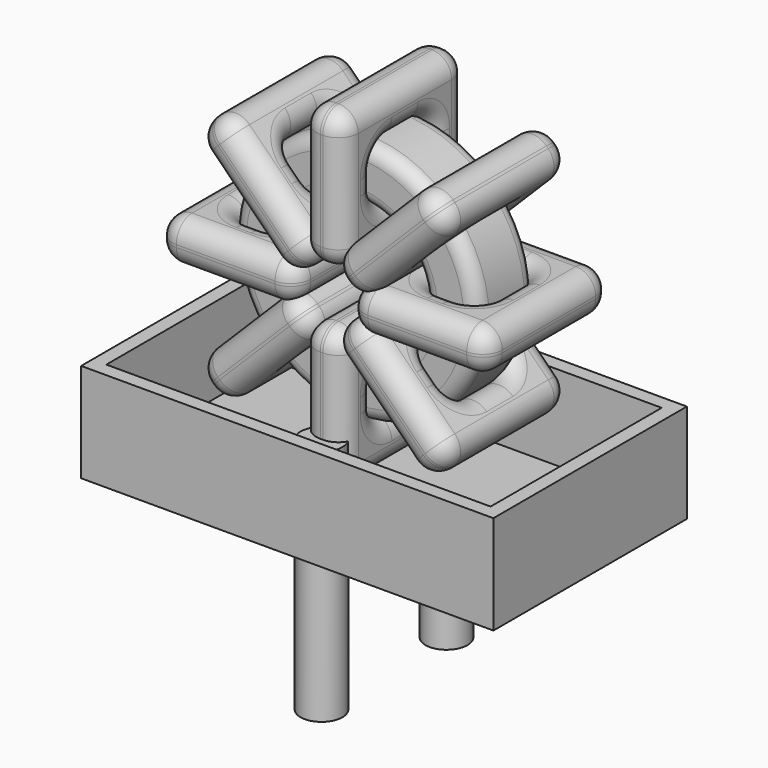
from build123d import *

# Parameters (mm, degrees)
SKETCH001_R       = 0.75
PAD001_DEPTH      = 1.5
PAD001_DEPTH_BACK = 7
SKETCH_R          = 4.392
SKETCH_R_2        = 2.455
PAD_DEPTH         = 1.29
FILLET_R          = 0.5
SKETCH003_W       = 4.937
SKETCH003_H       = 5.58
SKETCH003_W_2     = 1.937
SKETCH003_H_2     = 2.58
PAD002_DEPTH      = 0.75
FILLET001_R       = 0.705
SKETCH004_W       = 4.937
SKETCH004_H       = 5.58
SKETCH004_W_2     = 1.937
SKETCH004_H_2     = 2.58
PAD003_DEPTH      = 0.75
FILLET002_R       = 0.705
SKETCH005_W       = 4.937
SKETCH005_H       = 5.58
SKETCH005_W_2     = 1.937
SKETCH005_H_2     = 2.58
PAD004_DEPTH      = 0.75
FILLET003_R       = 0.705
SKETCH006_W       = 4.937
SKETCH006_H       = 5.58
SKETCH006_W_2     = 1.937
SKETCH006_H_2     = 2.58
PAD005_DEPTH      = 0.75
FILLET004_R       = 0.705
SKETCH007_W       = 14.73
SKETCH007_H       = 8.64
PAD006_DEPTH      = 0.5
SKETCH008_W       = 14.73
SKETCH008_H       = 8.64
SKETCH008_W_2     = 13.73
SKETCH008_H_2     = 7.64
PAD007_DEPTH      = 3.5352


with BuildPart() as pad001:
    # Sketch001 → Pad001 (new body, two sides)
    with BuildSketch(Plane.XY.offset(2)) as pad001_sk:
        Circle(SKETCH001_R)
        with Locations((0, -5.58)):
            Circle(SKETCH001_R)
    extrude(amount=PAD001_DEPTH)
    extrude(pad001_sk.sketch, amount=-PAD001_DEPTH_BACK)


with BuildPart() as fillet_body:
    # Sketch → Pad (new body, symmetric)
    with BuildSketch(Plane.XZ.offset(2.79)):
        with Locations((0, 7.892)):
            Circle(SKETCH_R)
        with Locations((0, 7.892)):
            Circle(SKETCH_R_2, mode=Mode.SUBTRACT)
    extrude(amount=PAD_DEPTH, both=True)

    # Fillet
    fillet_edges = [fillet_body.edges().sort_by_distance(p)[0] for p in [
        (-2.455, -4.08, 7.892),
        (-4.392, -4.08, 7.892),
        (-4.392, -1.5, 7.892),
    ]]
    fillet(fillet_edges, radius=FILLET_R)


with BuildPart() as fillet001:
    # Sketch003 → Pad002 (new body, symmetric)
    with BuildSketch(Plane(origin=(0, 0, 7.892), x_dir=(1, 0, 0), z_dir=(0, 0, -1))):
        with Locations((-3.4235, 2.79)):
            Rectangle(SKETCH003_W, SKETCH003_H)
        with Locations((-3.4235, 2.79)):
            Rectangle(SKETCH003_W_2, SKETCH003_H_2, mode=Mode.SUBTRACT)
        with Locations((3.4235, 2.79)):
            Rectangle(SKETCH003_W, SKETCH003_H)
        with Locations((3.4235, 2.79)):
            Rectangle(SKETCH003_W_2, SKETCH003_H_2, mode=Mode.SUBTRACT)
    extrude(amount=PAD002_DEPTH, both=True)

    # Fillet001
    fillet001_edges = [fillet001.edges().sort_by_distance(p)[0] for p in [
        (-2.455, -4.08, 7.892),
        (-2.455, -1.5, 7.892),
        (-2.455, -2.79, 8.642),
        (-2.455, -2.79, 7.142),
        (-5.892, -5.58, 7.892),
        (-0.955, -5.58, 7.892),
        (-3.4235, -5.58, 8.642),
        (-3.4235, -5.58, 7.142),
        (-0.955, 0, 7.892),
        (-0.955, -2.79, 8.642),
        (-0.955, -2.79, 7.142),
        (2.455, -4.08, 7.892),
        (4.392, -4.08, 7.892),
        (3.4235, -4.08, 8.642),
        (3.4235, -4.08, 7.142),
        (4.392, -1.5, 7.892),
        (4.392, -2.79, 8.642),
        (4.392, -2.79, 7.142),
        (0.955, -5.58, 7.892),
        (5.892, -5.58, 7.892),
        (3.4235, -5.58, 8.642),
        (3.4235, -5.58, 7.142),
        (5.892, 0, 7.892),
        (5.892, -2.79, 8.642),
        (5.892, -2.79, 7.142),
        (-4.392, -4.08, 7.892),
        (-3.4235, -4.08, 8.642),
        (-3.4235, -4.08, 7.142),
        (2.455, -1.5, 7.892),
        (2.455, -2.79, 8.642),
        (2.455, -2.79, 7.142),
        (3.4235, -1.5, 8.642),
        (3.4235, -1.5, 7.142),
        (0.955, 0, 7.892),
        (3.4235, 0, 8.642),
        (3.4235, 0, 7.142),
        (0.955, -2.79, 8.642),
        (0.955, -2.79, 7.142),
        (-5.892, 0, 7.892),
        (-3.4235, 0, 8.642),
        (-3.4235, 0, 7.142),
        (-5.892, -2.79, 8.642),
        (-5.892, -2.79, 7.142),
        (-4.392, -1.5, 7.892),
        (-4.392, -2.79, 8.642),
        (-4.392, -2.79, 7.142),
        (-3.4235, -1.5, 8.642),
        (-3.4235, -1.5, 7.142),
    ]]
    fillet(fillet001_edges, radius=FILLET001_R)


with BuildPart() as fillet002:
    # Sketch004 → Pad003 (new body, symmetric)
    with BuildSketch(Plane(origin=(0, 0, 7.892), x_dir=(0.707108, 0, 0.707106), z_dir=(0.707106, 0, -0.707108))):
        with Locations((-3.4235, 2.79)):
            Rectangle(SKETCH004_W, SKETCH004_H)
        with Locations((-3.4235, 2.79)):
            Rectangle(SKETCH004_W_2, SKETCH004_H_2, mode=Mode.SUBTRACT)
        with Locations((3.4235, 2.79)):
            Rectangle(SKETCH004_W, SKETCH004_H)
        with Locations((3.4235, 2.79)):
            Rectangle(SKETCH004_W_2, SKETCH004_H_2, mode=Mode.SUBTRACT)
    extrude(amount=PAD003_DEPTH, both=True)

    # Fillet002
    fillet002_edges = [fillet002.edges().sort_by_distance(p)[0] for p in [
        (-1.735949, -4.08, 6.156055),
        (-1.735949, -1.5, 6.156055),
        (-2.266279, -2.79, 6.686386),
        (-1.20562, -2.79, 5.625724),
        (-4.166278, -5.58, 3.725732),
        (-0.675288, -5.58, 7.216714),
        (-2.951112, -5.58, 6.001553),
        (-1.890453, -5.58, 4.940892),
        (-0.675288, 0, 7.216714),
        (-1.205617, -2.79, 7.747045),
        (-0.144958, -2.79, 6.686383),
        (1.735949, -1.5, 9.627945),
        (1.735949, -4.08, 9.627945),
        (1.20562, -2.79, 10.158276),
        (2.266279, -2.79, 9.097614),
        (3.105617, -1.5, 10.997609),
        (1.890453, -1.5, 10.843108),
        (2.951112, -1.5, 9.782447),
        (0.675288, -5.58, 8.567286),
        (4.166278, -5.58, 12.058268),
        (1.890453, -5.58, 10.843108),
        (2.951112, -5.58, 9.782447),
        (4.166278, 0, 12.058268),
        (3.635949, -2.79, 12.588599),
        (4.696607, -2.79, 11.527938),
        (-3.105617, -4.08, 4.786391),
        (-2.951112, -4.08, 6.001553),
        (-1.890453, -4.08, 4.940892),
        (3.105617, -4.08, 10.997609),
        (1.890453, -4.08, 10.843108),
        (2.951112, -4.08, 9.782447),
        (2.575287, -2.79, 11.52794),
        (3.635946, -2.79, 10.467279),
        (0.675288, 0, 8.567286),
        (1.890453, 0, 10.843108),
        (2.951112, 0, 9.782447),
        (0.144958, -2.79, 9.097617),
        (1.205617, -2.79, 8.036955),
        (-4.166278, 0, 3.725732),
        (-2.951112, 0, 6.001553),
        (-1.890453, 0, 4.940892),
        (-4.696607, -2.79, 4.256062),
        (-3.635949, -2.79, 3.195401),
        (-3.105617, -1.5, 4.786391),
        (-3.635946, -2.79, 5.316721),
        (-2.575287, -2.79, 4.25606),
        (-2.951112, -1.5, 6.001553),
        (-1.890453, -1.5, 4.940892),
    ]]
    fillet(fillet002_edges, radius=FILLET002_R)


with BuildPart() as fillet003:
    # Sketch005 → Pad004 (new body, symmetric)
    with BuildSketch(Plane(origin=(0, 0, 7.892), x_dir=(0.707108, 0, -0.707106), z_dir=(-0.707106, 0, -0.707108))):
        with Locations((-3.4235, 2.79)):
            Rectangle(SKETCH005_W, SKETCH005_H)
        with Locations((-3.4235, 2.79)):
            Rectangle(SKETCH005_W_2, SKETCH005_H_2, mode=Mode.SUBTRACT)
        with Locations((3.4235, 2.79)):
            Rectangle(SKETCH005_W, SKETCH005_H)
        with Locations((3.4235, 2.79)):
            Rectangle(SKETCH005_W_2, SKETCH005_H_2, mode=Mode.SUBTRACT)
    extrude(amount=PAD004_DEPTH, both=True)

    # Fillet003
    fillet003_edges = [fillet003.edges().sort_by_distance(p)[0] for p in [
        (3.105617, -4.08, 4.786391),
        (3.105617, -1.5, 4.786391),
        (3.635946, -2.79, 5.316721),
        (2.575287, -2.79, 4.25606),
        (4.166278, 0, 3.725732),
        (0.675288, 0, 7.216714),
        (2.951112, 0, 6.001553),
        (1.890453, 0, 4.940892),
        (0.675288, -5.58, 7.216714),
        (1.205617, -2.79, 7.747045),
        (0.144958, -2.79, 6.686383),
        (-3.105617, -4.08, 10.997609),
        (-1.735949, -4.08, 9.627945),
        (-1.890453, -4.08, 10.843108),
        (-2.951112, -4.08, 9.782447),
        (-1.735949, -1.5, 9.627945),
        (-1.20562, -2.79, 10.158276),
        (-2.266279, -2.79, 9.097614),
        (-0.675288, 0, 8.567286),
        (-4.166278, 0, 12.058268),
        (-1.890453, 0, 10.843108),
        (-2.951112, 0, 9.782447),
        (-4.166278, -5.58, 12.058268),
        (-3.635949, -2.79, 12.588599),
        (-4.696607, -2.79, 11.527938),
        (1.735949, -4.08, 6.156055),
        (2.951112, -4.08, 6.001553),
        (1.890453, -4.08, 4.940892),
        (-3.105617, -1.5, 10.997609),
        (-2.575287, -2.79, 11.52794),
        (-3.635946, -2.79, 10.467279),
        (-1.890453, -1.5, 10.843108),
        (-2.951112, -1.5, 9.782447),
        (-0.675288, -5.58, 8.567286),
        (-1.890453, -5.58, 10.843108),
        (-2.951112, -5.58, 9.782447),
        (-0.144958, -2.79, 9.097617),
        (-1.205617, -2.79, 8.036955),
        (4.166278, -5.58, 3.725732),
        (2.951112, -5.58, 6.001553),
        (1.890453, -5.58, 4.940892),
        (4.696607, -2.79, 4.256062),
        (3.635949, -2.79, 3.195401),
        (1.735949, -1.5, 6.156055),
        (2.266279, -2.79, 6.686386),
        (1.20562, -2.79, 5.625724),
        (2.951112, -1.5, 6.001553),
        (1.890453, -1.5, 4.940892),
    ]]
    fillet(fillet003_edges, radius=FILLET003_R)


with BuildPart() as fillet004:
    # Sketch006 → Pad005 (new body, symmetric)
    with BuildSketch(Plane(origin=(0, 0, 7.892), x_dir=(0, 0, 1), z_dir=(1, 0, 0))):
        with Locations((-3.4235, 2.79)):
            Rectangle(SKETCH006_W, SKETCH006_H)
        with Locations((-3.4235, 2.79)):
            Rectangle(SKETCH006_W_2, SKETCH006_H_2, mode=Mode.SUBTRACT)
        with Locations((3.4235, 2.79)):
            Rectangle(SKETCH006_W, SKETCH006_H)
        with Locations((3.4235, 2.79)):
            Rectangle(SKETCH006_W_2, SKETCH006_H_2, mode=Mode.SUBTRACT)
    extrude(amount=PAD005_DEPTH, both=True)

    # Fillet004
    fillet004_edges = [fillet004.edges().sort_by_distance(p)[0] for p in [
        (0, -4.08, 5.437),
        (0, -1.5, 5.437),
        (-0.75, -2.79, 5.437),
        (0.75, -2.79, 5.437),
        (0, -5.58, 2),
        (0, -5.58, 6.937),
        (-0.75, -5.58, 4.4685),
        (0.75, -5.58, 4.4685),
        (0, 0, 6.937),
        (-0.75, -2.79, 6.937),
        (0.75, -2.79, 6.937),
        (0, -4.08, 10.347),
        (0, -4.08, 12.284),
        (-0.75, -4.08, 11.3155),
        (0.75, -4.08, 11.3155),
        (0, -1.5, 12.284),
        (-0.75, -2.79, 12.284),
        (0.75, -2.79, 12.284),
        (0, -5.58, 8.847),
        (0, -5.58, 13.784),
        (-0.75, -5.58, 11.3155),
        (0.75, -5.58, 11.3155),
        (0, 0, 13.784),
        (-0.75, -2.79, 13.784),
        (0.75, -2.79, 13.784),
        (0, -4.08, 3.5),
        (-0.75, -4.08, 4.4685),
        (0.75, -4.08, 4.4685),
        (0, -1.5, 10.347),
        (-0.75, -2.79, 10.347),
        (0.75, -2.79, 10.347),
        (-0.75, -1.5, 11.3155),
        (0.75, -1.5, 11.3155),
        (0, 0, 8.847),
        (-0.75, 0, 11.3155),
        (0.75, 0, 11.3155),
        (-0.75, -2.79, 8.847),
        (0.75, -2.79, 8.847),
        (0, 0, 2),
        (-0.75, 0, 4.4685),
        (0.75, 0, 4.4685),
        (-0.75, -2.79, 2),
        (0.75, -2.79, 2),
        (0, -1.5, 3.5),
        (-0.75, -2.79, 3.5),
        (0.75, -2.79, 3.5),
        (-0.75, -1.5, 4.4685),
        (0.75, -1.5, 4.4685),
    ]]
    fillet(fillet004_edges, radius=FILLET004_R)


with BuildPart() as pad006:
    # Sketch007 → Pad006 (new body)
    with BuildSketch(Plane.XY.offset(0.5)):
        with Locations((0, -2.79)):
            Rectangle(SKETCH007_W, SKETCH007_H)
    extrude(amount=PAD006_DEPTH)


with BuildPart() as pad007:
    # Sketch008 → Pad007 (new body)
    with BuildSketch(Plane.XY.offset(0.5)):
        with Locations((0, -2.79)):
            Rectangle(SKETCH008_W, SKETCH008_H)
        with Locations((0, -2.79)):
            Rectangle(SKETCH008_W_2, SKETCH008_H_2, mode=Mode.SUBTRACT)
    extrude(amount=PAD007_DEPTH)


solid = Compound([pad001.part, fillet_body.part, fillet001.part, fillet002.part, fillet003.part, fillet004.part, pad006.part, pad007.part])
